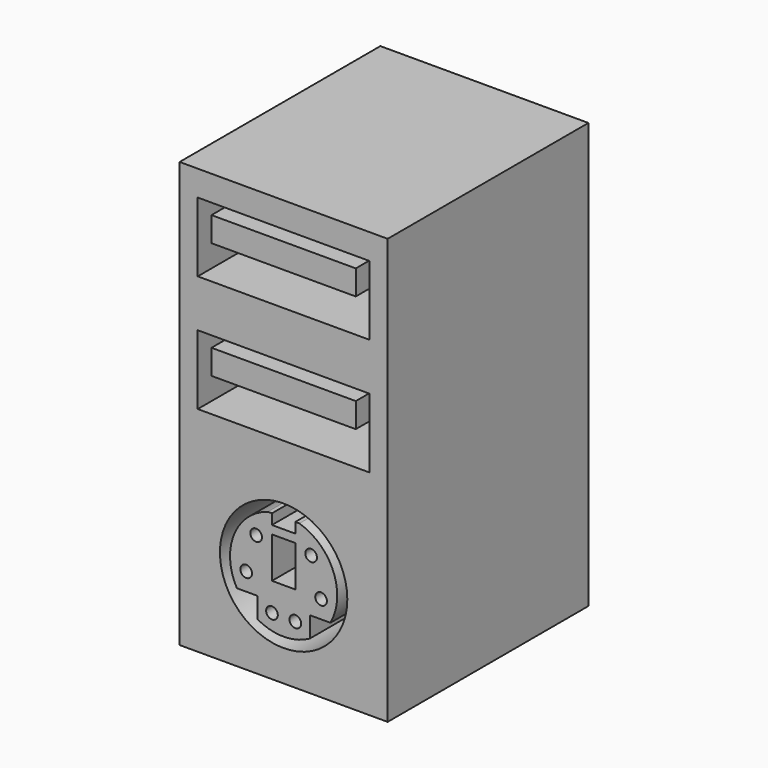
from build123d import *

# Parameters (mm, degrees)
F0_W     = 15.14
F0_H     = 18.26
F3_DEPTH = 30.95
F1_W     = 12.5
F1_H     = 5.05
F1_W_2   = 10.5
F1_H_2   = 1.8
F1_R     = 4.635
F4_DEPTH = 12.7
F1_R_2   = 0.425
F1_W_3   = 1.7
F1_H_3   = 2.976594
F2_DEPTH = 12.7


with BuildPart() as f3:
    # F0 (on Top) → F3 (new body)
    with BuildSketch(Plane.XY):
        Rectangle(F0_W, F0_H)
    extrude(amount=F3_DEPTH)

    # F1 (on face) → F4 (cut)
    with BuildSketch(Plane.XZ.offset(9.13)):
        with Locations((0, 26.575)):
            Rectangle(F1_W, F1_H)
        with Locations((0, 27.4)):
            Rectangle(F1_W_2, F1_H_2, mode=Mode.SUBTRACT)
        with Locations((0, 18.075)):
            Rectangle(F1_W, F1_H)
        with Locations((0, 18.9)):
            Rectangle(F1_W_2, F1_H_2, mode=Mode.SUBTRACT)
        with Locations((0, 6.9)):
            Circle(F1_R)
        with BuildLine():
            ThreePointArc((-3.403771, 4.996229), (-3.620699, 8.349324), (-1.15, 10.626594))
            Line((-1.15, 10.626594), (-0.85, 10.626594))
            Line((-0.85, 10.626594), (-0.85, 9.876594))
            Line((-0.85, 9.876594), (0.85, 9.876594))
            Line((0.85, 9.876594), (0.85, 10.626594))
            Line((0.85, 10.626594), (1.15, 10.626594))
            ThreePointArc((1.15, 10.626594), (3.620699, 8.349324), (3.403771, 4.996229))
            Line((3.403771, 4.996229), (1.903771, 4.996229))
            Line((1.903771, 4.996229), (1.903771, 3.496229))
            ThreePointArc((1.903771, 3.496229), (0, 3), (-1.903771, 3.496229))
            Line((-1.903771, 3.496229), (-1.903771, 4.996229))
            Line((-1.903771, 4.996229), (-3.403771, 4.996229))
        make_face(mode=Mode.SUBTRACT)
    extrude(amount=-F4_DEPTH, mode=Mode.SUBTRACT)

    # F1 (on face) → F2 (cut)
    with BuildSketch(Plane.XZ.offset(9.13)):
        with Locations((-2, 8.851594)):
            Circle(F1_R_2)
        with Locations((-2.724793, 6.3)):
            Circle(F1_R_2)
        with Locations((-0.85, 4.246229)):
            Circle(F1_R_2)
        with Locations((2.724793, 6.3)):
            Circle(F1_R_2)
        with Locations((2, 8.851594)):
            Circle(F1_R_2)
        with Locations((0.85, 4.246229)):
            Circle(F1_R_2)
        with Locations((0, 7.788297)):
            Rectangle(F1_W_3, F1_H_3)
    extrude(amount=-F2_DEPTH, mode=Mode.SUBTRACT)


solid = f3.part
